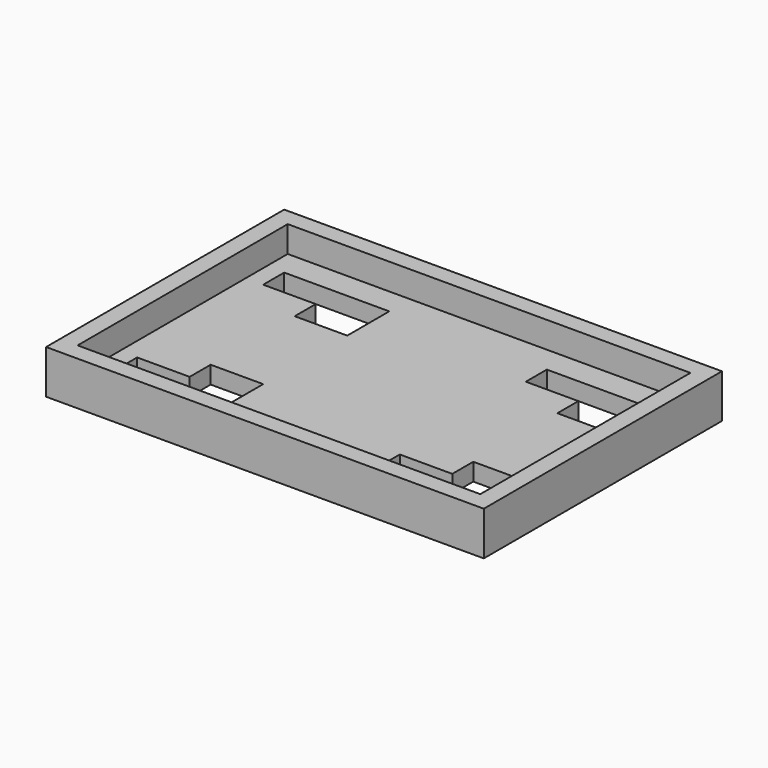
from build123d import *

# Parameters (mm, degrees)
F0_W     = 50
F0_H     = 34
F1_DEPTH = 5
F2_W     = 46
F2_H     = 30
F3_DEPTH = 3
F5_DEPTH = 2


with BuildPart() as f1:
    # F0 (on Top) → F1 (new body)
    with BuildSketch(Plane.XY):
        Rectangle(F0_W, F0_H)
    extrude(amount=F1_DEPTH)

    # F2 (on face) → F3 (cut)
    with BuildSketch(Plane.XY.offset(5)):
        Rectangle(F2_W, F2_H)
    extrude(amount=-F3_DEPTH, mode=Mode.SUBTRACT)

    # F4 (on face) → F5 (cut)
    with BuildSketch(Plane.XY.offset(2)):
        Polygon((-9, 12), (-21, 12), (-21, 9), (-15, 9), (-15, 6), (-9, 6), align=None)
        Polygon((21, 12), (9, 12), (9, 9), (15, 9), (15, 6), (21, 6), align=None)
        Polygon((-15, -9), (-21, -9), (-21, -12), (-9, -12), (-9, -6), (-15, -6), align=None)
        Polygon((15, -9), (9, -9), (9, -12), (21, -12), (21, -6), (15, -6), align=None)
    extrude(amount=-F5_DEPTH, mode=Mode.SUBTRACT)


solid = f1.part
